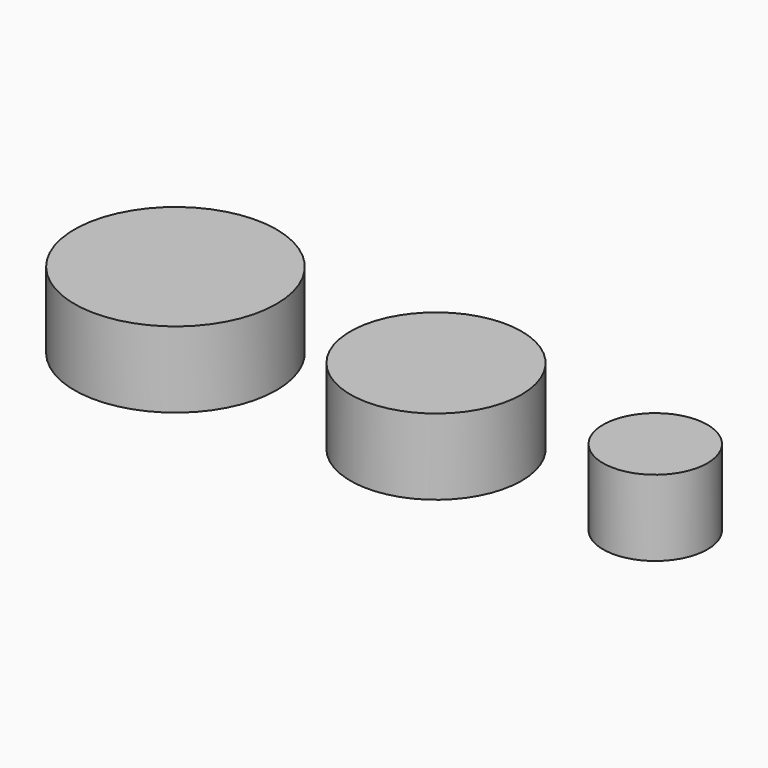
from build123d import *

# Parameters (mm, degrees)
F0_R     = 33.795112
F0_R_2   = 28.631713
F0_R_3   = 17.445551
F1_DEPTH = 25.4


with BuildPart() as f1:
    # F0 (on Top) → F1 (new body)
    with BuildSketch(Plane.XY):
        with Locations((-87.158218, 0)):
            Circle(F0_R)
        Circle(F0_R_2)
        with Locations((73.337734, 0)):
            Circle(F0_R_3)
    extrude(amount=F1_DEPTH)


solid = f1.part
